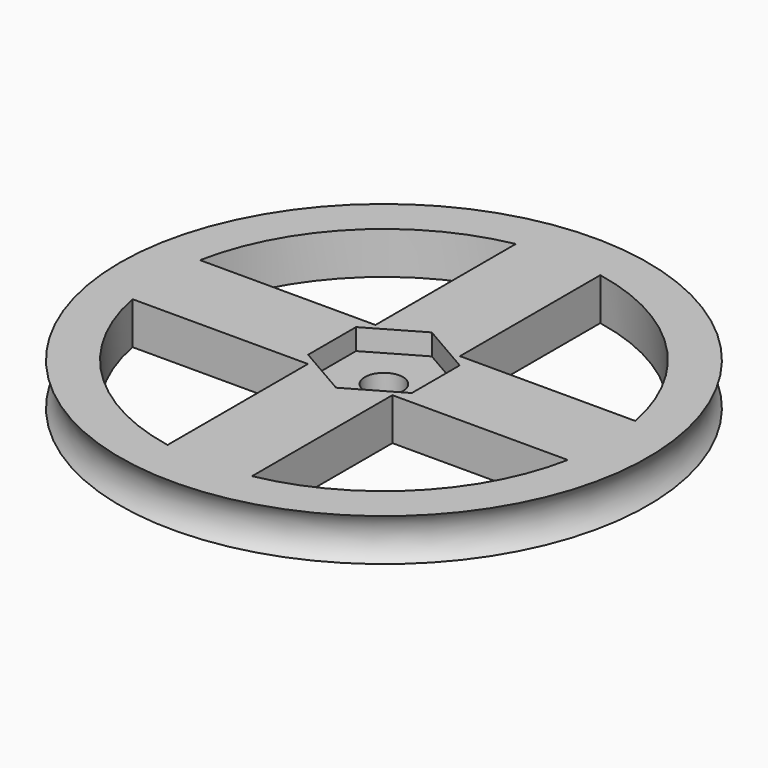
from build123d import *

# Parameters (mm, degrees)
F3_DEPTH = 5.081
F5_DEPTH = 2.54
F6_R     = 2.286
F7_DEPTH = 2.541


with BuildPart() as f1:
    # F0 (on Front) → F1 (revolve)
    with BuildSketch(Plane.XZ):
        with BuildLine():
            Line((0, 5.08), (-31.75, 5.08))
            ThreePointArc((-31.75, 5.08), (-30.779806, 2.54), (-31.75, 0))
            Line((-31.75, 0), (0, 0))
            Line((0, 0), (0, 5.08))
        make_face()
    revolve(axis=Axis((0, 0, 2.54), (0, 0, -1)))

    # F2 (on face) → F3 (cut, through all)
    with BuildSketch(Plane.XY.offset(5.08)):
        with BuildLine():
            Line((-5.08, -5.08), (-26.181721, -5.08))
            ThreePointArc((-26.181721, -5.08), (-18.858538, -18.858538), (-5.08, -26.181721))
            Line((-5.08, -26.181721), (-5.08, -5.08))
        make_face()
        with BuildLine():
            ThreePointArc((-5.08, 26.181721), (-18.858538, 18.858538), (-26.181721, 5.08))
            Line((-26.181721, 5.08), (-5.08, 5.08))
            Line((-5.08, 5.08), (-5.08, 26.181721))
        make_face()
        with BuildLine():
            Line((5.08, -5.08), (5.08, -26.181721))
            ThreePointArc((5.08, -26.181721), (18.858538, -18.858538), (26.181721, -5.08))
            Line((26.181721, -5.08), (5.08, -5.08))
        make_face()
        with BuildLine():
            Line((5.08, 5.08), (26.181721, 5.08))
            ThreePointArc((26.181721, 5.08), (18.858538, 18.858538), (5.08, 26.181721))
            Line((5.08, 26.181721), (5.08, 5.08))
        make_face()
    extrude(amount=-F3_DEPTH, mode=Mode.SUBTRACT)

    # F4 (on face) → F5 (cut)
    with BuildSketch(Plane.XY.offset(5.08)):
        Polygon((-6.2357, 3.600183), (-6.2357, -3.600183), (0, -7.200366), (6.2357, -3.600183), (6.2357, 3.600183), (0, 7.200366), align=None)
    extrude(amount=-F5_DEPTH, mode=Mode.SUBTRACT)

    # F6 (on face) → F7 (cut, through all)
    with BuildSketch(Plane.XY.offset(2.54)):
        Circle(F6_R)
    extrude(amount=-F7_DEPTH, mode=Mode.SUBTRACT)


solid = f1.part
